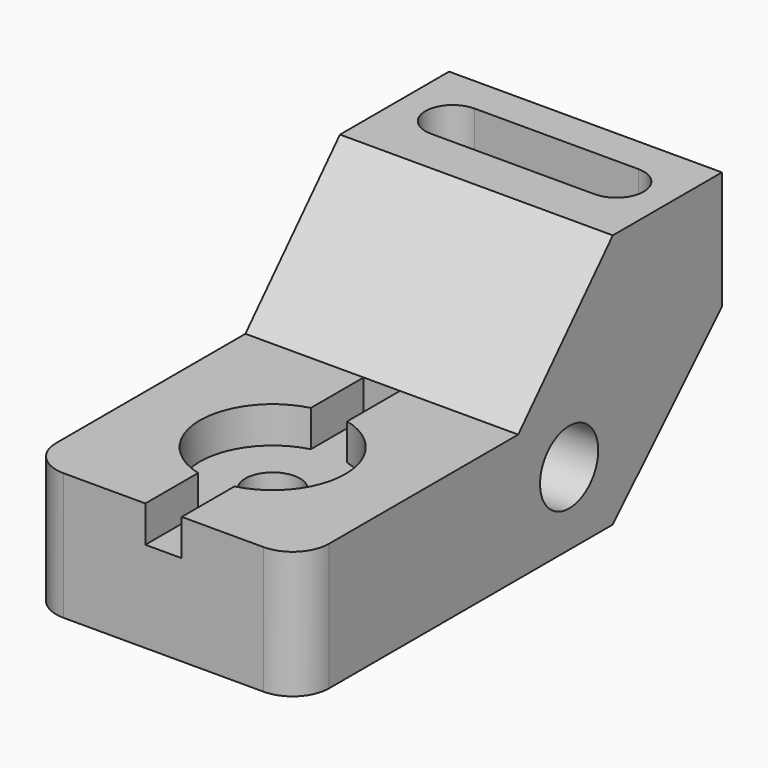
from build123d import *

# Parameters (mm, degrees)
F0_R           = 10.16
F1_DEPTH       = 38.1
F3_DEPTH       = 27.94
F6_D           = 15.24
F6_CBORE_D     = 40.64
F6_CBORE_DEPTH = 10.16
F4_W           = 10.16
F4_H           = 10.16
F7_DEPTH       = 76.2
F8_R           = 10.16


with BuildPart() as f1:
    # F0 (on Right) → F1 (new body, symmetric)
    with BuildSketch(Plane.YZ):
        Polygon((-109.22, 0), (0, 0), (38.1, 38.1), (38.1, 71.12), (0, 71.12), (-33.02, 35.56), (-109.22, 35.56), align=None)
        with Locations((-15.24, 20.32)):
            Circle(F0_R, mode=Mode.SUBTRACT)
    extrude(amount=F1_DEPTH, both=True)

    # F2 (on face) → F3 (cut)
    with BuildSketch(Plane.XY.offset(71.12)):
        with BuildLine():
            Line((22.86, 27.94), (-22.86, 27.94))
            ThreePointArc((-22.86, 27.94), (-30.48, 20.32), (-22.86, 12.7))
            Line((-22.86, 12.7), (22.86, 12.7))
            ThreePointArc((22.86, 12.7), (30.48, 20.32), (22.86, 27.94))
        make_face()
    extrude(amount=-F3_DEPTH, mode=Mode.SUBTRACT)

    # F6 (through all)
    with Locations(Plane.XY.offset(35.56)):
        with Locations((0, -71.12)):
            CounterBoreHole(F6_D / 2, F6_CBORE_D / 2, F6_CBORE_DEPTH)

    # F4 (on face) → F7 (cut)
    with BuildSketch(Plane.XZ.offset(109.22)):
        with Locations((0, 30.48)):
            Rectangle(F4_W, F4_H)
    extrude(amount=-F7_DEPTH, mode=Mode.SUBTRACT)

    # F8
    f8_edges = [f1.edges().sort_by_distance(p)[0] for p in [
        (-38.1, -109.22, 17.78),
        (38.1, -109.22, 17.78),
    ]]
    fillet(f8_edges, radius=F8_R)


solid = f1.part
